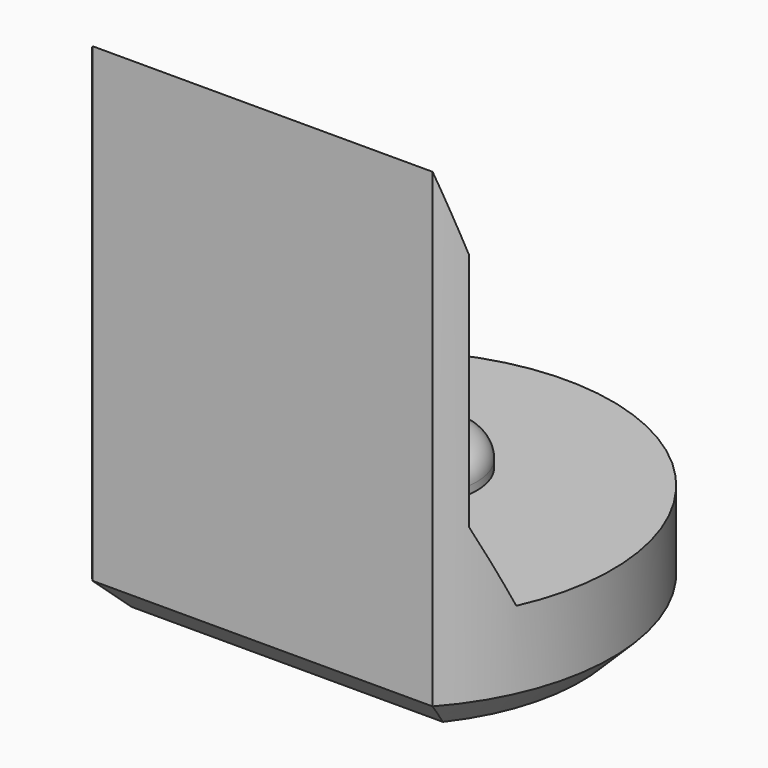
from build123d import *

# Parameters (mm, degrees)
PAD008_DEPTH         = 6.5
POCKET007_DEPTH      = 2.951
POCKET007_DEPTH_BACK = 2.951
SKETCH023_R          = 0.8
PAD009_DEPTH         = 0.4
FILLET001_R          = 0.3
CHAMFER007_SIZE      = 0.4


with BuildPart() as part:
    # Sketch022 → Pad008 (new body)
    with BuildSketch(Plane.XY):
        with BuildLine():
            ThreePointArc((2.2, -1.9653244007), (0, 2.95), (-2.2, -1.9653244007))
            Line((-2.2, -1.9653244007), (2.2, -1.9653244007))
        make_face()
    extrude(amount=PAD008_DEPTH)

    # Sketch024 → Pocket007 (cut, two sides)
    with BuildSketch(Plane.YZ) as pocket007_sk:
        Polygon((-1.97, 6.5), (-1.67, 5.5), (-1.67, 2.4), (-1.22, 1.4), (4, 1.4), (4, 6.5), align=None)
    extrude(amount=-POCKET007_DEPTH, mode=Mode.SUBTRACT)
    extrude(pocket007_sk.sketch, amount=POCKET007_DEPTH_BACK, mode=Mode.SUBTRACT)

    # Sketch023 (on Face7 of Pocket007) → Pad009 (join)
    with BuildSketch(Plane.XY.offset(1.4)):
        with Locations((0, 0.5)):
            Circle(SKETCH023_R)
    extrude(amount=PAD009_DEPTH)

    # Fillet001
    fillet001_edges = [part.edges().sort_by_distance(p)[0] for p in [
        (-0.8, 0.5, 1.8),
    ]]
    fillet(fillet001_edges, radius=FILLET001_R)

    # Chamfer007
    chamfer007_edges = [part.edges().sort_by_distance(p)[0] for p in [
        (0, 2.95, 0),
        (0, -1.965324, 0),
    ]]
    chamfer(chamfer007_edges, length=CHAMFER007_SIZE)


with BuildPart() as part_1:
    # Body093 placement: moved
    add(part.part.moved(Location((0, 78, 0))))


solid = part_1.part
